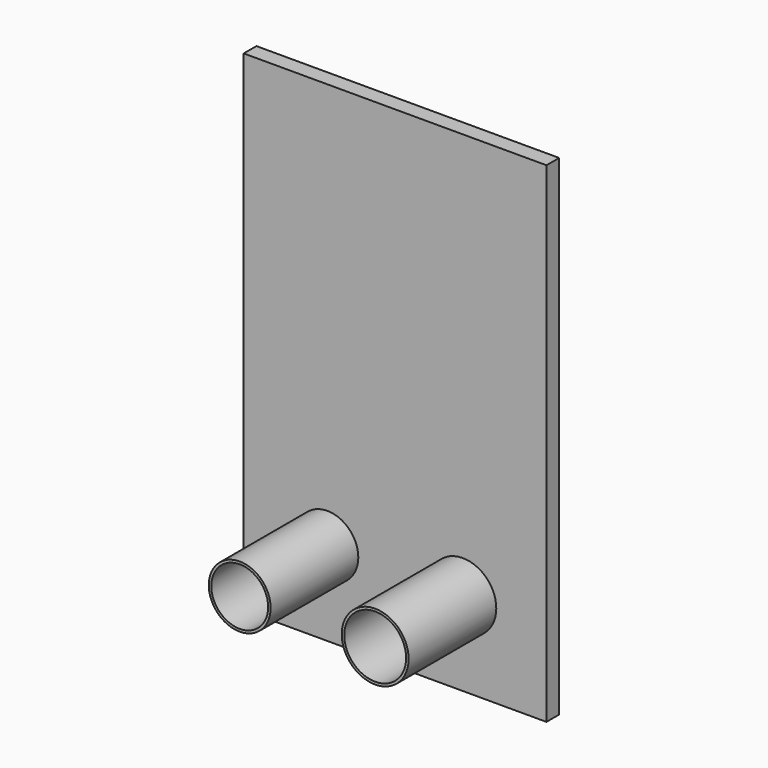
from build123d import *

# Parameters (mm, degrees)
F0_W     = 362
F0_H     = 586
F0_R     = 37
F0_R_2   = 40
F1_DEPTH = 19
F2_DEPTH = 150
F0_R_3   = 34
F3_DEPTH = 150


with BuildPart() as f1:
    # F0 (on Front) → F1 (new body)
    with BuildSketch(Plane.XZ):
        with Locations((181, 293)):
            Rectangle(F0_W, F0_H)
        with Locations((100, 100)):
            Circle(F0_R, mode=Mode.SUBTRACT)
        with Locations((262, 100)):
            Circle(F0_R_2, mode=Mode.SUBTRACT)
    extrude(amount=F1_DEPTH)

    # F0 (on Front) → F2 (join)
    with BuildSketch(Plane.XZ):
        with Locations((262, 100)):
            Circle(F0_R_2)
        with Locations((262, 100)):
            Circle(F0_R, mode=Mode.SUBTRACT)
    extrude(amount=F2_DEPTH)

    # F0 (on Front) → F3 (join)
    with BuildSketch(Plane.XZ):
        with Locations((100, 100)):
            Circle(F0_R)
        with Locations((100, 100)):
            Circle(F0_R_3, mode=Mode.SUBTRACT)
    extrude(amount=F3_DEPTH)


solid = f1.part
